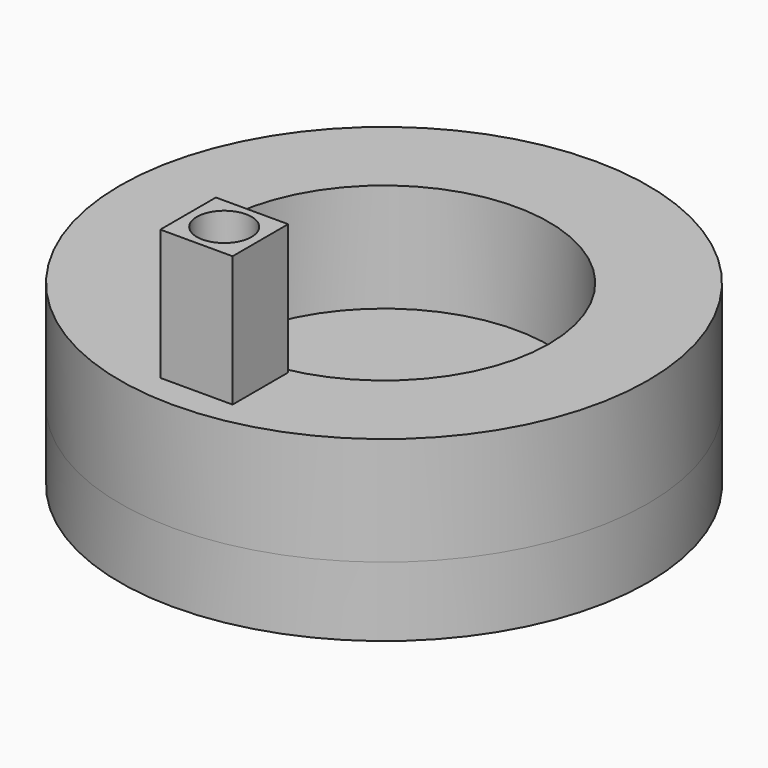
from build123d import *

# Parameters (mm, degrees)
F0_R     = 48.26
F0_R_2   = 2
F0_R_3   = 30.1625
F0_R_4   = 3.175
F1_DEPTH = 12.7
F2_DEPTH = 19.812
F4_DEPTH = 23.876
F5_R     = 5
F5_R_2   = 3
F6_DEPTH = 6.5
F7_DEPTH = 40


with BuildPart() as f1:
    # F0 (on Top) → F1 (new body)
    with BuildSketch(Plane.XY):
        Circle(F0_R)
        with Locations((-31.877, -18.404195)):
            Circle(F0_R_2, mode=Mode.SUBTRACT)
        with Locations((31.877, -18.404195)):
            Circle(F0_R_2, mode=Mode.SUBTRACT)
        Circle(F0_R_3, mode=Mode.SUBTRACT)
        with Locations((0, 36.808389)):
            Circle(F0_R_2, mode=Mode.SUBTRACT)
        Circle(F0_R_3)
        Circle(F0_R_4, mode=Mode.SUBTRACT)
    extrude(amount=-F1_DEPTH)

    # F0 (on Top) → F2 (join)
    with BuildSketch(Plane.XY):
        Circle(F0_R)
        with Locations((-31.877, -18.404195)):
            Circle(F0_R_2, mode=Mode.SUBTRACT)
        with Locations((31.877, -18.404195)):
            Circle(F0_R_2, mode=Mode.SUBTRACT)
        Circle(F0_R_3, mode=Mode.SUBTRACT)
        with Locations((0, 36.808389)):
            Circle(F0_R_2, mode=Mode.SUBTRACT)
        with Locations((0, 36.808389)):
            Circle(F0_R_2)
        with Locations((-31.877, -18.404195)):
            Circle(F0_R_2)
        with Locations((31.877, -18.404195)):
            Circle(F0_R_2)
    extrude(amount=F2_DEPTH)


with BuildPart() as f4:
    # F3 (on face) → F4 (new body)
    with BuildSketch(Plane.XY.offset(19.812)):
        Polygon((0, -30.1625), (-6.604, -30.1625), (-6.604, -42.8625), (6.604, -42.8625), (6.604, -30.1625), align=None)
    extrude(amount=F4_DEPTH)

    # F5 (on face) → F6 (cut)
    with BuildSketch(Plane.XY.offset(43.688)):
        with Locations((0, -36.5125)):
            Circle(F5_R)
        with Locations((0, -36.5125)):
            Circle(F5_R_2, mode=Mode.SUBTRACT)
        with Locations((0, -36.5125)):
            Circle(F5_R_2)
    extrude(amount=-F6_DEPTH, mode=Mode.SUBTRACT)


with BuildPart() as f7_tool:
    # F5 (on face) → F7 (new body)
    with BuildSketch(Plane.XY.offset(43.688)):
        with Locations((0, -36.5125)):
            Circle(F5_R_2)
    extrude(amount=-F7_DEPTH)


with BuildPart() as f1_1:
    add(f1.part)

    # F7: cut by f7_tool
    add(f7_tool.part, mode=Mode.SUBTRACT)


with BuildPart() as f4_1:
    add(f4.part)

    # F7: cut by f7_tool
    add(f7_tool.part, mode=Mode.SUBTRACT)


solid = Compound([f1_1.part, f4_1.part])
